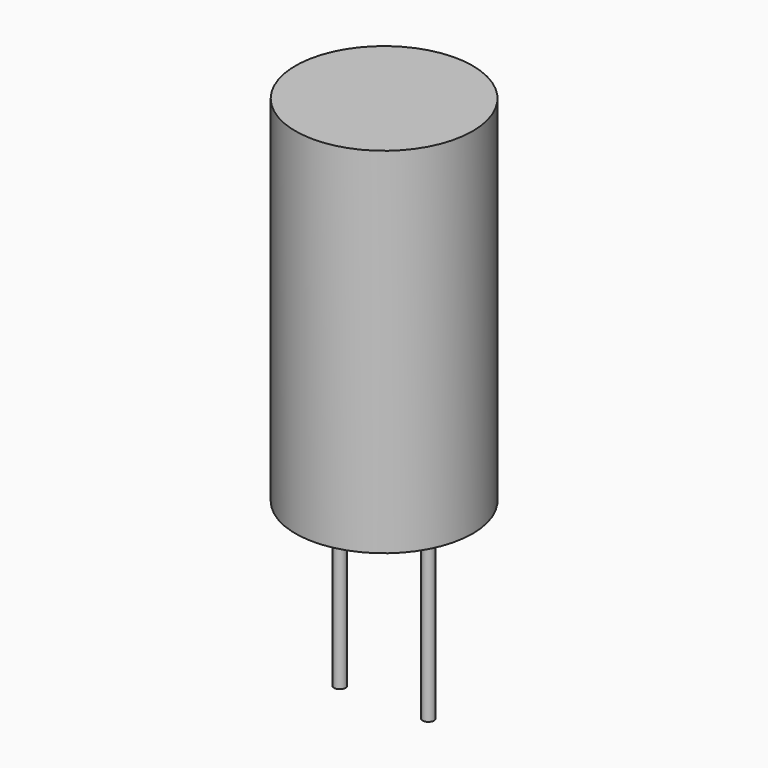
from build123d import *

# Parameters (mm, degrees)
F0_R     = 5
F1_DEPTH = 20
F2_R     = 0.325
F3_DEPTH = 10


with BuildPart() as f1:
    # F0 (on Top) → F1 (new body)
    with BuildSketch(Plane.XY):
        Circle(F0_R)
    extrude(amount=F1_DEPTH)

    # F2 (on face) → F3 (join)
    with BuildSketch(Plane(origin=(0, 0, 0), x_dir=(1, 0, 0), z_dir=(0, 0, -1))):
        with Locations((-2.5, 0)):
            Circle(F2_R)
        with Locations((2.5, 0)):
            Circle(F2_R)
    extrude(amount=F3_DEPTH)


solid = f1.part
